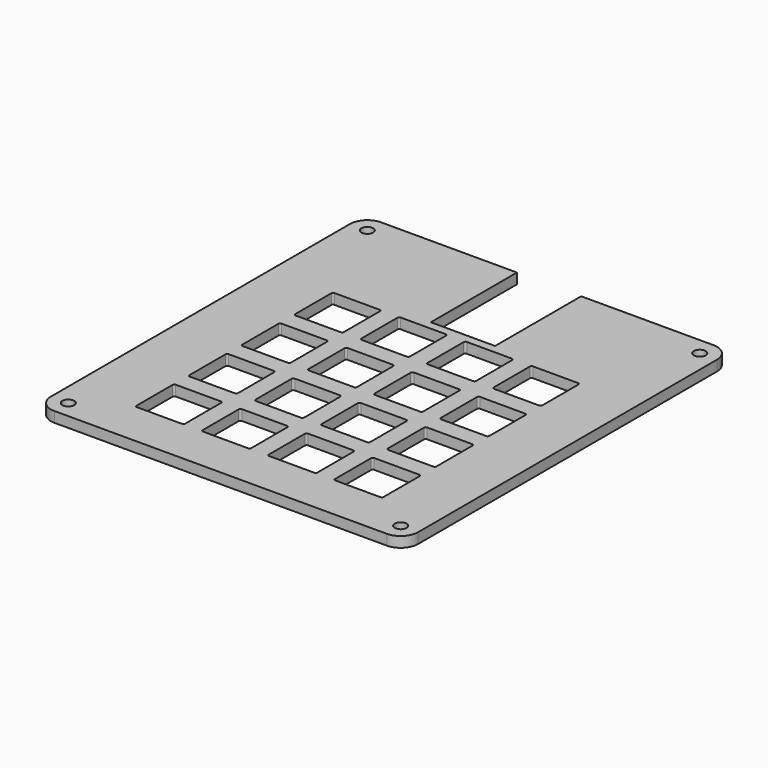
from build123d import *

# Parameters (mm, degrees)
SKETCH_R     = 1.7
PAD_DEPTH    = 3
POCKET_DEPTH = 10


with BuildPart() as part:
    # Sketch → Pad (new body)
    with BuildSketch(Plane.XY):
        with BuildLine():
            Line((-15.278, 48.916), (-15.278, -58.715))
            ThreePointArc((-15.278, -58.715), (-13.813534, -62.250534), (-10.278, -63.715))
            Line((-10.278, -63.715), (85.447, -63.715))
            ThreePointArc((85.447, -63.715), (88.982534, -62.250534), (90.447, -58.715))
            Line((90.447, -58.715), (90.447, 48.916))
            ThreePointArc((90.447, 48.916), (88.982534, 52.451534), (85.447, 53.916))
            Line((85.447, 53.916), (47.31676, 53.916))
            Line((47.31676, 22.916), (47.31676, 53.916))
            Line((28.81676, 22.916), (47.31676, 22.916))
            Line((28.81676, 53.916), (28.81676, 22.916))
            Line((28.81676, 53.916), (-10.278, 53.916))
            ThreePointArc((-10.278, 53.916), (-13.813534, 52.451534), (-15.278, 48.916))
        make_face()
        with Locations((-10.278, -58.715)):
            Circle(SKETCH_R, mode=Mode.SUBTRACT)
        with Locations((-10.278, 48.916)):
            Circle(SKETCH_R, mode=Mode.SUBTRACT)
        with Locations((85.447, 48.916)):
            Circle(SKETCH_R, mode=Mode.SUBTRACT)
        with Locations((85.447, -58.715)):
            Circle(SKETCH_R, mode=Mode.SUBTRACT)
    extrude(amount=PAD_DEPTH)

    # Sketch001 → Pocket (cut)
    with BuildSketch(Plane(origin=(0, 23, 0), x_dir=(1, 0, 0), z_dir=(0, 0, 1))):
        with BuildLine():
            ThreePointArc((73.175, -73.675), (73.528553, -73.528553), (73.675, -73.175))
            Line((73.675, -60.175), (73.675, -73.175))
            ThreePointArc((73.675, -60.175), (73.528553, -59.821447), (73.175, -59.675))
            Line((60.175, -59.675), (73.175, -59.675))
            ThreePointArc((60.175, -59.675), (59.821447, -59.821447), (59.675, -60.175))
            Line((59.675, -60.175), (59.675, -73.175))
            ThreePointArc((59.675, -73.175), (59.821447, -73.528553), (60.175, -73.675))
            Line((60.175, -73.675), (73.175, -73.675))
        make_face()
        with BuildLine():
            Line((3.025, -2.525), (16.025, -2.525))
            ThreePointArc((16.525, -3.025), (16.378553, -2.671447), (16.025, -2.525))
            Line((16.525, -3.025), (16.525, -16.025))
            ThreePointArc((16.025, -16.525), (16.378553, -16.378553), (16.525, -16.025))
            Line((3.025, -16.525), (16.025, -16.525))
            ThreePointArc((2.525, -16.025), (2.671447, -16.378553), (3.025, -16.525))
            Line((2.525, -3.025), (2.525, -16.025))
            ThreePointArc((3.025, -2.525), (2.671447, -2.671447), (2.525, -3.025))
        make_face()
        with BuildLine():
            Line((22.075, -2.525), (35.075, -2.525))
            ThreePointArc((35.575, -3.025), (35.428553, -2.671447), (35.075, -2.525))
            Line((35.575, -3.025), (35.575, -16.025))
            ThreePointArc((35.075, -16.525), (35.428553, -16.378553), (35.575, -16.025))
            Line((22.075, -16.525), (35.075, -16.525))
            ThreePointArc((21.575, -16.025), (21.721447, -16.378553), (22.075, -16.525))
            Line((21.575, -3.025), (21.575, -16.025))
            ThreePointArc((22.075, -2.525), (21.721447, -2.671447), (21.575, -3.025))
        make_face()
        with BuildLine():
            Line((41.125, -2.525), (54.125, -2.525))
            ThreePointArc((54.625, -3.025), (54.478553, -2.671447), (54.125, -2.525))
            Line((54.625, -3.025), (54.625, -16.025))
            ThreePointArc((54.125, -16.525), (54.478553, -16.378553), (54.625, -16.025))
            Line((41.125, -16.525), (54.125, -16.525))
            ThreePointArc((40.625, -16.025), (40.771447, -16.378553), (41.125, -16.525))
            Line((40.625, -3.025), (40.625, -16.025))
            ThreePointArc((41.125, -2.525), (40.771447, -2.671447), (40.625, -3.025))
        make_face()
        with BuildLine():
            Line((60.175, -2.525), (73.175, -2.525))
            ThreePointArc((73.675, -3.025), (73.528553, -2.671447), (73.175, -2.525))
            Line((73.675, -3.025), (73.675, -16.025))
            ThreePointArc((73.175, -16.525), (73.528553, -16.378553), (73.675, -16.025))
            Line((60.175, -16.525), (73.175, -16.525))
            ThreePointArc((59.675, -16.025), (59.821447, -16.378553), (60.175, -16.525))
            Line((59.675, -3.025), (59.675, -16.025))
            ThreePointArc((60.175, -2.525), (59.821447, -2.671447), (59.675, -3.025))
        make_face()
        with BuildLine():
            Line((3.025, -21.575), (16.025, -21.575))
            ThreePointArc((16.525, -22.075), (16.378553, -21.721447), (16.025, -21.575))
            Line((16.525, -22.075), (16.525, -35.075))
            ThreePointArc((16.025, -35.575), (16.378553, -35.428553), (16.525, -35.075))
            Line((3.025, -35.575), (16.025, -35.575))
            ThreePointArc((2.525, -35.075), (2.671447, -35.428553), (3.025, -35.575))
            Line((2.525, -22.075), (2.525, -35.075))
            ThreePointArc((3.025, -21.575), (2.671447, -21.721447), (2.525, -22.075))
        make_face()
        with BuildLine():
            Line((22.075, -21.575), (35.075, -21.575))
            ThreePointArc((35.575, -22.075), (35.428553, -21.721447), (35.075, -21.575))
            Line((35.575, -22.075), (35.575, -35.075))
            ThreePointArc((35.075, -35.575), (35.428553, -35.428553), (35.575, -35.075))
            Line((22.075, -35.575), (35.075, -35.575))
            ThreePointArc((21.575, -35.075), (21.721447, -35.428553), (22.075, -35.575))
            Line((21.575, -22.075), (21.575, -35.075))
            ThreePointArc((22.075, -21.575), (21.721447, -21.721447), (21.575, -22.075))
        make_face()
        with BuildLine():
            Line((41.125, -21.575), (54.125, -21.575))
            ThreePointArc((54.625, -22.075), (54.478553, -21.721447), (54.125, -21.575))
            Line((54.625, -22.075), (54.625, -35.075))
            ThreePointArc((54.125, -35.575), (54.478553, -35.428553), (54.625, -35.075))
            Line((41.125, -35.575), (54.125, -35.575))
            ThreePointArc((40.625, -35.075), (40.771447, -35.428553), (41.125, -35.575))
            Line((40.625, -22.075), (40.625, -35.075))
            ThreePointArc((41.125, -21.575), (40.771447, -21.721447), (40.625, -22.075))
        make_face()
        with BuildLine():
            Line((60.175, -21.575), (73.175, -21.575))
            ThreePointArc((73.675, -22.075), (73.528553, -21.721447), (73.175, -21.575))
            Line((73.675, -22.075), (73.675, -35.075))
            ThreePointArc((73.175, -35.575), (73.528553, -35.428553), (73.675, -35.075))
            Line((60.175, -35.575), (73.175, -35.575))
            ThreePointArc((59.675, -35.075), (59.821447, -35.428553), (60.175, -35.575))
            Line((59.675, -22.075), (59.675, -35.075))
            ThreePointArc((60.175, -21.575), (59.821447, -21.721447), (59.675, -22.075))
        make_face()
        with BuildLine():
            Line((3.025, -40.625), (16.025, -40.625))
            ThreePointArc((16.525, -41.125), (16.378553, -40.771447), (16.025, -40.625))
            Line((16.525, -41.125), (16.525, -54.125))
            ThreePointArc((16.025, -54.625), (16.378553, -54.478553), (16.525, -54.125))
            Line((3.025, -54.625), (16.025, -54.625))
            ThreePointArc((2.525, -54.125), (2.671447, -54.478553), (3.025, -54.625))
            Line((2.525, -41.125), (2.525, -54.125))
            ThreePointArc((3.025, -40.625), (2.671447, -40.771447), (2.525, -41.125))
        make_face()
        with BuildLine():
            Line((22.075, -40.625), (35.075, -40.625))
            ThreePointArc((35.575, -41.125), (35.428553, -40.771447), (35.075, -40.625))
            Line((35.575, -41.125), (35.575, -54.125))
            ThreePointArc((35.075, -54.625), (35.428553, -54.478553), (35.575, -54.125))
            Line((22.075, -54.625), (35.075, -54.625))
            ThreePointArc((21.575, -54.125), (21.721447, -54.478553), (22.075, -54.625))
            Line((21.575, -41.125), (21.575, -54.125))
            ThreePointArc((22.075, -40.625), (21.721447, -40.771447), (21.575, -41.125))
        make_face()
        with BuildLine():
            Line((41.125, -40.625), (54.125, -40.625))
            ThreePointArc((54.625, -41.125), (54.478553, -40.771447), (54.125, -40.625))
            Line((54.625, -41.125), (54.625, -54.125))
            ThreePointArc((54.125, -54.625), (54.478553, -54.478553), (54.625, -54.125))
            Line((41.125, -54.625), (54.125, -54.625))
            ThreePointArc((40.625, -54.125), (40.771447, -54.478553), (41.125, -54.625))
            Line((40.625, -41.125), (40.625, -54.125))
            ThreePointArc((41.125, -40.625), (40.771447, -40.771447), (40.625, -41.125))
        make_face()
        with BuildLine():
            Line((60.175, -40.625), (73.175, -40.625))
            ThreePointArc((73.675, -41.125), (73.528553, -40.771447), (73.175, -40.625))
            Line((73.675, -41.125), (73.675, -54.125))
            ThreePointArc((73.175, -54.625), (73.528553, -54.478553), (73.675, -54.125))
            Line((60.175, -54.625), (73.175, -54.625))
            ThreePointArc((59.675, -54.125), (59.821447, -54.478553), (60.175, -54.625))
            Line((59.675, -41.125), (59.675, -54.125))
            ThreePointArc((60.175, -40.625), (59.821447, -40.771447), (59.675, -41.125))
        make_face()
        with BuildLine():
            Line((3.025, -59.675), (16.025, -59.675))
            ThreePointArc((16.525, -60.175), (16.378553, -59.821447), (16.025, -59.675))
            Line((16.525, -60.175), (16.525, -73.175))
            ThreePointArc((16.025, -73.675), (16.378553, -73.528553), (16.525, -73.175))
            Line((3.025, -73.675), (16.025, -73.675))
            ThreePointArc((2.525, -73.175), (2.671447, -73.528553), (3.025, -73.675))
            Line((2.525, -60.175), (2.525, -73.175))
            ThreePointArc((3.025, -59.675), (2.671447, -59.821447), (2.525, -60.175))
        make_face()
        with BuildLine():
            Line((22.075, -59.675), (35.075, -59.675))
            ThreePointArc((35.575, -60.175), (35.428553, -59.821447), (35.075, -59.675))
            Line((35.575, -60.175), (35.575, -73.175))
            ThreePointArc((35.075, -73.675), (35.428553, -73.528553), (35.575, -73.175))
            Line((22.075, -73.675), (35.075, -73.675))
            ThreePointArc((21.575, -73.175), (21.721447, -73.528553), (22.075, -73.675))
            Line((21.575, -60.175), (21.575, -73.175))
            ThreePointArc((22.075, -59.675), (21.721447, -59.821447), (21.575, -60.175))
        make_face()
        with BuildLine():
            Line((41.125, -59.675), (54.125, -59.675))
            ThreePointArc((54.625, -60.175), (54.478553, -59.821447), (54.125, -59.675))
            Line((54.625, -60.175), (54.625, -73.175))
            ThreePointArc((54.125, -73.675), (54.478553, -73.528553), (54.625, -73.175))
            Line((41.125, -73.675), (54.125, -73.675))
            ThreePointArc((40.625, -73.175), (40.771447, -73.528553), (41.125, -73.675))
            Line((40.625, -60.175), (40.625, -73.175))
            ThreePointArc((41.125, -59.675), (40.771447, -59.821447), (40.625, -60.175))
        make_face()
    extrude(amount=POCKET_DEPTH, mode=Mode.SUBTRACT)


solid = part.part
